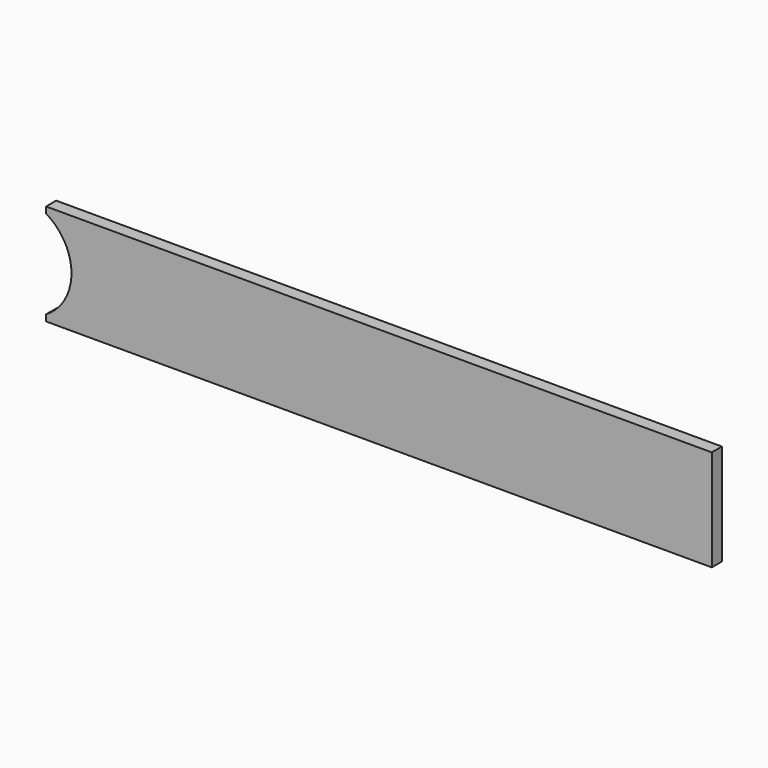
from build123d import *

# Parameters (mm, degrees)
F1_DEPTH = 2.5


with BuildPart() as f1:
    # F0 (on Front) → F1 (new body, symmetric)
    with BuildSketch(Plane.XZ):
        with BuildLine():
            Line((205.3693801672, 49.6460123666), (-57.6306198328, 49.6460123666))
            Line((-57.6306198328, 49.6460123666), (-57.6306198328, 47.1460123666))
            ThreePointArc((-57.6306198328, 47.1460123666), (-47.6044160209, 29.6460123666), (-57.6306198328, 12.1460123666))
            Line((-57.6306198328, 12.1460123666), (-57.6306198328, 9.6460123666))
            Line((-57.6306198328, 9.6460123666), (205.3693801672, 9.6460123666))
            Line((205.3693801672, 9.6460123666), (205.3693801672, 49.6460123666))
        make_face()
    extrude(amount=F1_DEPTH, both=True)


solid = f1.part
